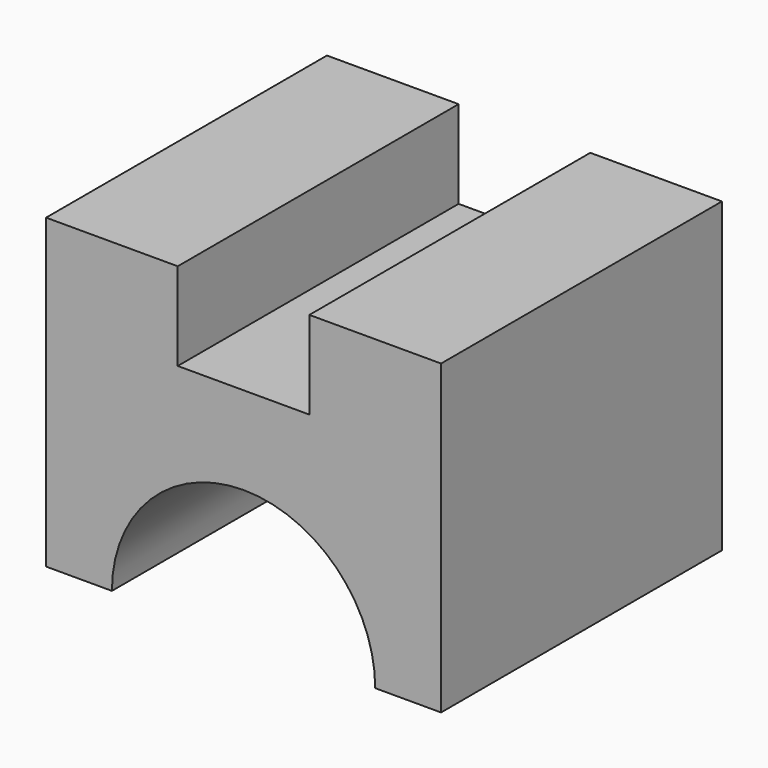
from build123d import *

# Parameters (mm, degrees)
PAD_DEPTH = 40


with BuildPart() as part:
    # Sketch → Pad (new body)
    with BuildSketch(Plane.XZ):
        with BuildLine():
            Line((-22.5, 0), (-22.5, 35))
            Line((-22.5, 35), (-7.5, 35))
            Line((-7.5, 35), (-7.5, 25))
            Line((-7.5, 25), (7.5, 25))
            Line((7.5, 25), (7.5, 35))
            Line((7.5, 35), (22.5, 35))
            Line((22.5, 35), (22.5, 0))
            Line((22.5, 0), (15, 0))
            ThreePointArc((15, 0), (0, 15), (-15, 0))
            Line((-15, 0), (-22.5, 0))
        make_face()
    extrude(amount=PAD_DEPTH)


solid = part.part
